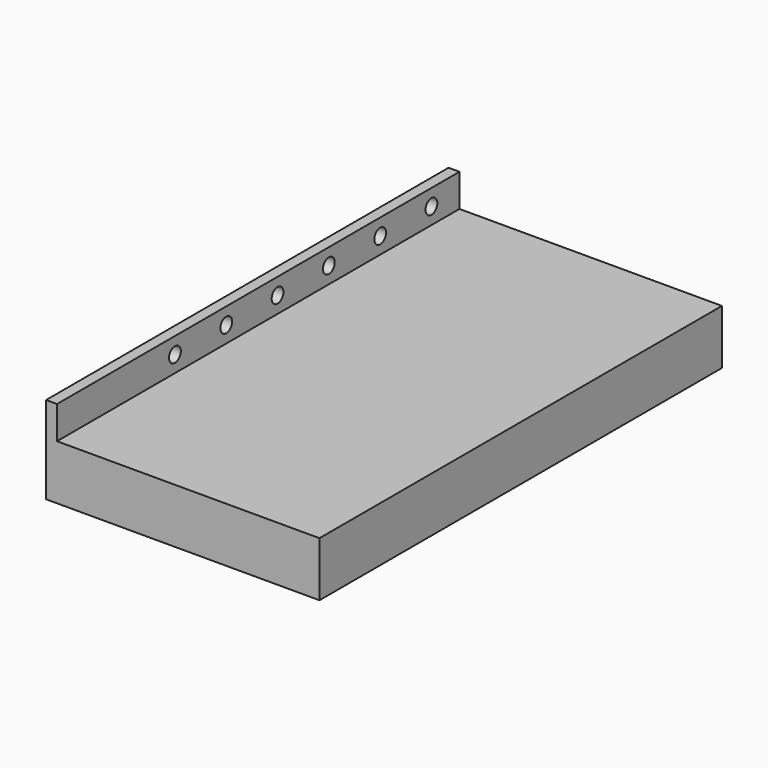
from build123d import *

# Parameters (mm, degrees)
F0_W     = 63.5
F0_H     = 116.84
F1_DEPTH = 12.7
F2_W     = 116.84
F2_H     = 7.6035529703
F2_R     = 1.7093941464
F3_DEPTH = 2.54


with BuildPart() as f1:
    # F0 (on Top) → F1 (new body)
    with BuildSketch(Plane.XY):
        Rectangle(F0_W, F0_H)
    extrude(amount=F1_DEPTH)

    # F2 (on face) → F3 (join)
    with BuildSketch(Plane(origin=(-31.75, 0, 0), x_dir=(0, -1, 0), z_dir=(-1, 0, 0))):
        with Locations((0, 16.5017764851)):
            Rectangle(F2_W, F2_H)
        with Locations((-50.292, 16.51)):
            Circle(F2_R, mode=Mode.SUBTRACT)
        with Locations((-35.3977816476, 16.51)):
            Circle(F2_R, mode=Mode.SUBTRACT)
        with Locations((-20.5035632952, 16.51)):
            Circle(F2_R, mode=Mode.SUBTRACT)
        with Locations((-5.6093449428, 16.51)):
            Circle(F2_R, mode=Mode.SUBTRACT)
        with Locations((9.2848734097, 16.51)):
            Circle(F2_R, mode=Mode.SUBTRACT)
        with Locations((24.1790917621, 16.51)):
            Circle(F2_R, mode=Mode.SUBTRACT)
    extrude(amount=-F3_DEPTH)


solid = f1.part
